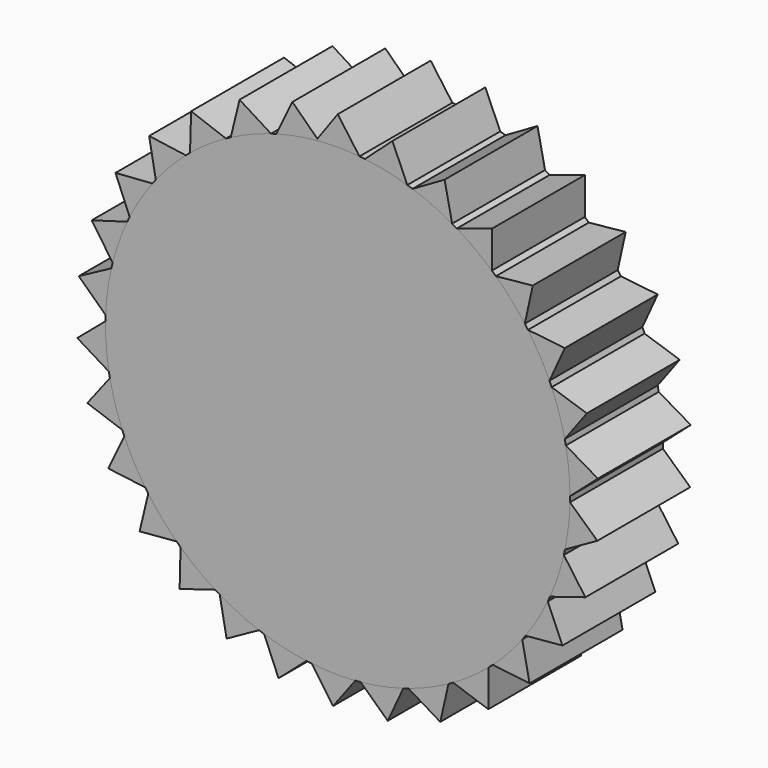
from build123d import *

# Parameters (mm, degrees)
F1_DEPTH = 12.7
F2_DEPTH = 12.7


with BuildPart() as f1:
    # F0 (on Front) → F1 (new body)
    with BuildSketch(Plane.XZ):
        with BuildLine():
            ThreePointArc((2.965665, 25.226273), (5.310858, 24.838575), (7.60954, 24.233343))
            Line((7.60954, 24.233343), (5.974716, 27.943396))
            Line((5.974716, 27.943396), (2.965665, 25.226273))
        make_face()
        with BuildLine():
            ThreePointArc((8.174648, 24.048599), (10.386941, 23.179117), (12.508267, 22.106634))
            Line((12.508267, 22.106634), (11.685309, 26.076506))
            Line((11.685309, 26.076506), (8.174648, 24.048599))
        make_face()
        with BuildLine():
            ThreePointArc((13.022256, 21.807816), (15.003851, 20.494986), (16.854044, 19.002663))
            Line((16.854044, 19.002663), (16.879332, 23.056859))
            Line((16.879332, 23.056859), (13.022256, 21.807816))
        make_face()
        with BuildLine():
            ThreePointArc((17.294193, 18.602981), (18.95749, 16.904839), (20.454759, 15.058647))
            Line((20.454759, 15.058647), (21.327176, 19.017944))
            Line((21.327176, 19.017944), (17.294193, 18.602981))
        make_face()
        with BuildLine():
            ThreePointArc((20.80161, 14.575768), (22.07308, 12.567384), (23.151236, 10.448936))
            Line((23.151236, 10.448936), (24.832215, 14.138307))
            Line((24.832215, 14.138307), (20.80161, 14.575768))
        make_face()
        with BuildLine():
            ThreePointArc((23.389456, 9.904209), (24.212891, 7.674367), (24.824272, 5.377313))
            Line((24.824272, 5.377313), (27.239503, 8.633662))
            Line((27.239503, 8.633662), (23.389456, 9.904209))
        make_face()
        with BuildLine():
            ThreePointArc((24.94333, 4.794817), (25.28233, 2.44209), (25.399909, 0.067976))
            Line((25.399909, 0.067976), (28.442621, 2.747351))
            Line((28.442621, 2.747351), (24.94333, 4.794817))
        make_face()
        with BuildLine():
            Line((28.388384, -3.260411), (25.394542, -0.526539))
            ThreePointArc((25.394542, -0.526539), (25.234119, -2.898143), (24.852699, -5.244366))
            Line((24.852699, -5.244366), (28.388384, -3.260411))
        make_face()
        with BuildLine():
            Line((27.079189, -9.124041), (24.723144, -5.824618))
            ThreePointArc((24.723144, -5.824618), (24.070391, -8.110259), (23.206832, -10.324871))
            Line((23.206832, -10.324871), (27.079189, -9.124041))
        make_face()
        with BuildLine():
            Line((24.572912, -14.584327), (22.958816, -10.865209))
            ThreePointArc((22.958816, -10.865209), (21.842589, -12.963847), (20.535066, -14.948948))
            Line((20.535066, -14.948948), (24.572912, -14.584327))
        make_face()
        with BuildLine():
            Line((20.980347, -19.399888), (20.179554, -15.425485))
            ThreePointArc((20.179554, -15.425485), (18.649197, -17.244345), (16.955513, -18.912181))
            Line((16.955513, -18.912181), (20.980347, -19.399888))
        make_face()
        with BuildLine():
            Line((16.460309, -23.357843), (16.50822, -19.303851))
            ThreePointArc((16.50822, -19.303851), (14.631386, -20.762527), (12.626412, -22.039368))
            Line((12.626412, -22.039368), (16.460309, -23.357843))
        make_face()
        with BuildLine():
            Line((11.212615, -26.283225), (12.107111, -22.328857))
            ThreePointArc((12.107111, -22.328857), (9.966769, -23.362866), (7.739138, -24.192266))
            Line((7.739138, -24.192266), (11.212615, -26.283225))
        make_face()
        with BuildLine():
            Line((5.469248, -28.04671), (7.170787, -24.366777))
            ThreePointArc((7.170787, -24.366777), (4.861553, -24.930409), (2.509743, -25.275704))
            Line((2.509743, -25.275704), (5.469248, -28.04671))
        make_face()
        with BuildLine():
            Line((-0.515897, -28.570343), (1.917466, -25.327521))
            ThreePointArc((1.917466, -25.327521), (-0.458575, -25.39586), (-2.8306, -25.241785))
            Line((-2.8306, -25.241785), (-0.515897, -28.570343))
        make_face()
        with BuildLine():
            Line((-6.478236, -27.830973), (-3.420621, -25.168618))
            ThreePointArc((-3.420621, -25.168618), (-5.758432, -24.738643), (-8.045812, -24.092009))
            Line((-8.045812, -24.092009), (-6.478236, -27.830973))
        make_face()
        with BuildLine():
            Line((-12.154193, -25.861288), (-8.607492, -23.897093))
            ThreePointArc((-8.607492, -23.897093), (-10.803727, -22.987811), (-12.905344, -21.877205))
            Line((-12.905344, -21.877205), (-12.154193, -25.861288))
        make_face()
        with BuildLine():
            Line((-17.292853, -22.748359), (-13.413855, -21.569156))
            ThreePointArc((-13.413855, -21.569156), (-15.371425, -20.220764), (-17.194374, -18.69528))
            Line((-17.194374, -18.69528), (-17.292853, -22.748359))
        make_face()
        with BuildLine():
            Line((-21.667053, -18.6298), (-17.627235, -18.287717))
            ThreePointArc((-17.627235, -18.287717), (-19.259602, -16.559822), (-20.723296, -14.686899))
            Line((-20.723296, -14.686899), (-21.667053, -18.6298))
        make_face()
        with BuildLine():
            Line((-25.083423, -13.687678), (-21.061373, -14.197837))
            ThreePointArc((-21.061373, -14.197837), (-22.296376, -12.166825), (-23.336109, -10.029258))
            Line((-23.336109, -10.029258), (-25.083423, -13.687678))
        make_face()
        with BuildLine():
            Line((-27.390936, -8.140469), (-23.564456, -9.480318))
            ThreePointArc((-23.564456, -9.480318), (-24.347499, -7.235973), (-24.917309, -4.928256))
            Line((-24.917309, -4.928256), (-27.390936, -8.140469))
        make_face()
        with BuildLine():
            Line((-28.487586, -2.233396), (-25.025831, -4.343704))
            ThreePointArc((-25.025831, -4.343704), (-25.322299, -1.985241), (-25.396996, 0.390609))
            Line((-25.396996, 0.390609), (-28.487586, -2.233396))
        make_face()
        with BuildLine():
            ThreePointArc((-25.380897, 0.98493), (-25.177683, 3.353251), (-24.753965, 5.692205))
            Line((-24.753965, 5.692205), (-28.324893, 3.772408))
            Line((-28.324893, 3.772408), (-25.380897, 0.98493))
        make_face()
        with BuildLine():
            ThreePointArc((-24.613955, 6.270024), (-23.920044, 8.543507), (-23.016642, 10.742168))
            Line((-23.016642, 10.742168), (-26.910049, 9.611446))
            Line((-26.910049, 9.611446), (-24.613955, 6.270024))
        make_face()
        with BuildLine():
            ThreePointArc((-22.758912, 11.27794), (-21.604977, 13.356083), (-20.261829, 15.317255))
            Line((-20.261829, 15.317255), (-24.3056, 15.025593))
            Line((-24.3056, 15.025593), (-22.758912, 11.27794))
        make_face()
        with BuildLine():
            ThreePointArc((-19.897771, 15.787296), (-18.334826, 17.57823), (-16.611306, 19.215215))
            Line((-16.611306, 19.215215), (-20.626679, 19.775509))
            Line((-20.626679, 19.775509), (-19.897771, 15.787296))
        make_face()
        with BuildLine():
            ThreePointArc((-16.157015, 19.598747), (-14.254151, 21.023301), (-12.226452, 22.263734))
            Line((-12.226452, 22.263734), (-16.03592, 23.651213))
            Line((-16.03592, 23.651213), (-16.157015, 19.598747))
        make_face()
        with BuildLine():
            ThreePointArc((-11.70201, 22.543801), (-9.543348, 23.539), (-7.301106, 24.328047))
            Line((-7.301106, 24.328047), (-10.736266, 26.481375))
            Line((-10.736266, 26.481375), (-11.70201, 22.543801))
        make_face()
        with BuildLine():
            ThreePointArc((0, 25.4), (1.188512, 25.372178), (2.37442, 25.288775))
            Line((2.37442, 25.288775), (0, 28.575))
            Line((0, 28.575), (0, 25.4))
        make_face()
        with BuildLine():
            Line((-2.37442, 25.288775), (-2.229972, 25.488693))
            Line((-2.229972, 25.488693), (-4.961997, 28.140882))
            Line((-4.961997, 28.140882), (-6.729697, 24.492268))
            ThreePointArc((-6.729697, 24.492268), (-4.569447, 24.985599), (-2.37442, 25.288775))
        make_face()
        with BuildLine():
            ThreePointArc((-2.053002, 25.316895), (-1.027342, 25.379215), (0, 25.4))
            Line((0, 25.4), (0, 28.575))
            Line((0, 28.575), (-2.229972, 25.488693))
            Line((-2.229972, 25.488693), (-2.053002, 25.316895))
        make_face()
        with BuildLine():
            ThreePointArc((-2.37442, 25.288775), (-2.213756, 25.303345), (-2.053002, 25.316895))
            Line((-2.053002, 25.316895), (-2.229972, 25.488693))
            Line((-2.229972, 25.488693), (-2.37442, 25.288775))
        make_face()
    extrude(amount=F1_DEPTH)


with BuildPart() as f2:
    # F0 (on Front) → F2 (new body)
    with BuildSketch(Plane.XZ):
        with BuildLine():
            ThreePointArc((25.394542, -0.526539), (25.398635, -0.263284), (25.4, 0))
            ThreePointArc((25.4, 0), (25.399977, 0.033988), (25.399909, 0.067976))
            ThreePointArc((25.399909, 0.067976), (25.28233, 2.44209), (24.94333, 4.794817))
            ThreePointArc((24.94333, 4.794817), (24.885506, 5.086413), (24.824272, 5.377313))
            ThreePointArc((24.824272, 5.377313), (24.212891, 7.674367), (23.389456, 9.904209))
            ThreePointArc((23.389456, 9.904209), (23.27194, 10.17727), (23.151236, 10.448936))
            ThreePointArc((23.151236, 10.448936), (22.07308, 12.567384), (20.80161, 14.575768))
            ThreePointArc((20.80161, 14.575768), (20.629597, 14.818222), (20.454759, 15.058647))
            ThreePointArc((20.454759, 15.058647), (18.95749, 16.904839), (17.294193, 18.602981))
            ThreePointArc((17.294193, 18.602981), (17.075288, 18.80411), (16.854044, 19.002663))
            ThreePointArc((16.854044, 19.002663), (15.003851, 20.494986), (13.022256, 21.807816))
            ThreePointArc((13.022256, 21.807816), (12.766136, 21.958729), (12.508267, 22.106634))
            ThreePointArc((12.508267, 22.106634), (10.386941, 23.179117), (8.174648, 24.048599))
            ThreePointArc((8.174648, 24.048599), (7.892634, 24.142625), (7.60954, 24.233343))
            ThreePointArc((7.60954, 24.233343), (5.310858, 24.838575), (2.965665, 25.226273))
            ThreePointArc((2.965665, 25.226273), (2.670225, 25.259254), (2.37442, 25.288775))
            ThreePointArc((2.37442, 25.288775), (1.188512, 25.372178), (0, 25.4))
            ThreePointArc((0, 25.4), (-1.027342, 25.379215), (-2.053002, 25.316895))
            ThreePointArc((-2.053002, 25.316895), (-2.213756, 25.303345), (-2.37442, 25.288775))
            ThreePointArc((-2.37442, 25.288775), (-4.569447, 24.985599), (-6.729697, 24.492268))
            ThreePointArc((-6.729697, 24.492268), (-7.015882, 24.411829), (-7.301106, 24.328047))
            ThreePointArc((-7.301106, 24.328047), (-9.543348, 23.539), (-11.70201, 22.543801))
            ThreePointArc((-11.70201, 22.543801), (-11.96505, 22.405302), (-12.226452, 22.263734))
            ThreePointArc((-12.226452, 22.263734), (-14.254151, 21.023301), (-16.157015, 19.598747))
            ThreePointArc((-16.157015, 19.598747), (-16.385283, 19.40831), (-16.611306, 19.215215))
            ThreePointArc((-16.611306, 19.215215), (-18.334826, 17.57823), (-19.897771, 15.787296))
            ThreePointArc((-19.897771, 15.787296), (-20.081175, 15.55334), (-20.261829, 15.317255))
            ThreePointArc((-20.261829, 15.317255), (-21.604977, 13.356083), (-22.758912, 11.27794))
            ThreePointArc((-22.758912, 11.27794), (-22.889345, 11.010808), (-23.016642, 10.742168))
            ThreePointArc((-23.016642, 10.742168), (-23.920044, 8.543507), (-24.613955, 6.270024))
            ThreePointArc((-24.613955, 6.270024), (-24.685651, 5.981524), (-24.753965, 5.692205))
            ThreePointArc((-24.753965, 5.692205), (-25.177683, 3.353251), (-25.380897, 0.98493))
            ThreePointArc((-25.380897, 0.98493), (-25.390685, 0.687816), (-25.396996, 0.390609))
            ThreePointArc((-25.396996, 0.390609), (-25.322299, -1.985241), (-25.025831, -4.343704))
            ThreePointArc((-25.025831, -4.343704), (-24.973281, -4.636297), (-24.917309, -4.928256))
            ThreePointArc((-24.917309, -4.928256), (-24.347499, -7.235973), (-23.564456, -9.480318))
            ThreePointArc((-23.564456, -9.480318), (-23.451889, -9.755456), (-23.336109, -10.029258))
            ThreePointArc((-23.336109, -10.029258), (-22.296376, -12.166825), (-21.061373, -14.197837))
            ThreePointArc((-21.061373, -14.197837), (-20.893765, -14.443357), (-20.723296, -14.686899))
            ThreePointArc((-20.723296, -14.686899), (-19.259602, -16.559822), (-17.627235, -18.287717))
            ThreePointArc((-17.627235, -18.287717), (-17.411997, -18.492765), (-17.194374, -18.69528))
            ThreePointArc((-17.194374, -18.69528), (-15.371425, -20.220764), (-13.413855, -21.569156))
            ThreePointArc((-13.413855, -21.569156), (-13.160501, -21.724668), (-12.905344, -21.877205))
            ThreePointArc((-12.905344, -21.877205), (-10.803727, -22.987811), (-8.607492, -23.897093))
            ThreePointArc((-8.607492, -23.897093), (-8.327222, -23.996195), (-8.045812, -24.092009))
            ThreePointArc((-8.045812, -24.092009), (-5.758432, -24.738643), (-3.420621, -25.168618))
            ThreePointArc((-3.420621, -25.168618), (-3.125825, -25.206928), (-2.8306, -25.241785))
            ThreePointArc((-2.8306, -25.241785), (-0.458575, -25.39586), (1.917466, -25.327521))
            ThreePointArc((1.917466, -25.327521), (2.213756, -25.303345), (2.509743, -25.275704))
            ThreePointArc((2.509743, -25.275704), (4.861553, -24.930409), (7.170787, -24.366777))
            ThreePointArc((7.170787, -24.366777), (7.455473, -24.281184), (7.739138, -24.192266))
            ThreePointArc((7.739138, -24.192266), (9.966769, -23.362866), (12.107111, -22.328857))
            ThreePointArc((12.107111, -22.328857), (12.367609, -22.185632), (12.626412, -22.039368))
            ThreePointArc((12.626412, -22.039368), (14.631386, -20.762527), (16.50822, -19.303851))
            ThreePointArc((16.50822, -19.303851), (16.733013, -19.109325), (16.955513, -18.912181))
            ThreePointArc((16.955513, -18.912181), (18.649197, -17.244345), (20.179554, -15.425485))
            ThreePointArc((20.179554, -15.425485), (20.358705, -15.188257), (20.535066, -14.948948))
            ThreePointArc((20.535066, -14.948948), (21.842589, -12.963847), (22.958816, -10.865209))
            ThreePointArc((22.958816, -10.865209), (23.084405, -10.595766), (23.206832, -10.324871))
            ThreePointArc((23.206832, -10.324871), (24.070391, -8.110259), (24.723144, -5.824618))
            ThreePointArc((24.723144, -5.824618), (24.789619, -5.534871), (24.852699, -5.244366))
            ThreePointArc((24.852699, -5.244366), (25.234119, -2.898143), (25.394542, -0.526539))
        make_face()
    extrude(amount=F2_DEPTH)


solid = Compound([f1.part, f2.part])
